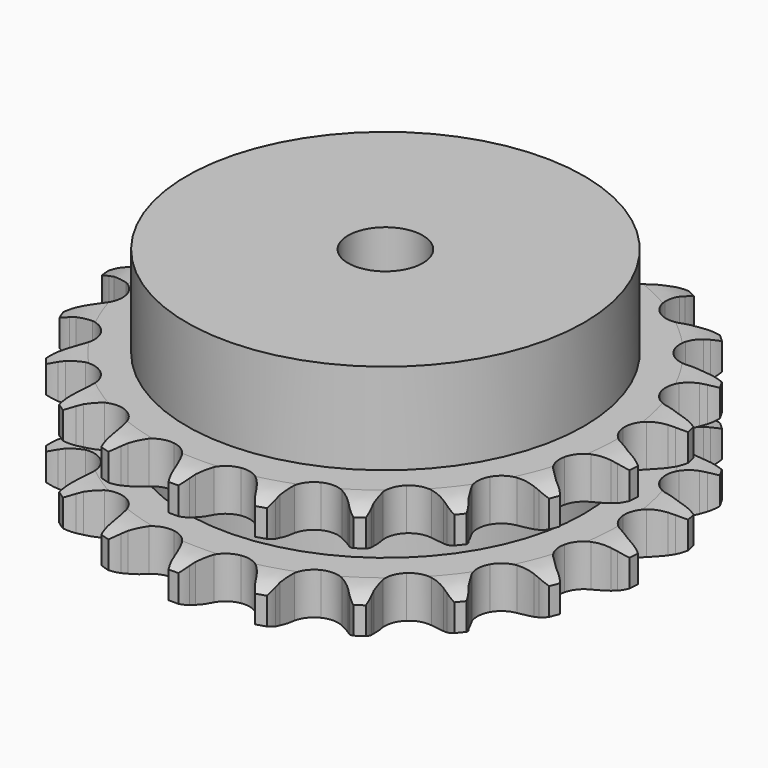
from build123d import *

# Parameters (mm, degrees)
PAD_DEPTH         = 25.5
SKETCH001_R       = 42.5
PAD001_DEPTH      = 45
SKETCH002_R       = 8
POCKET_DEPTH      = 0.001
POCKET_DEPTH_BACK = 45.001


with BuildPart() as part:
    # Sprocket → Pad (new body)
    with BuildSketch(Plane.XY):
        with BuildLine():
            ThreePointArc((-8.672796, 57.540243), (-7.31066, 56.082373), (-6.33219, 54.343582))
            Line((-6.33219, 54.343582), (-5.841747, 53.160938))
            ThreePointArc((-5.841747, 53.160938), (-5.053924, 51.570894), (-4.061016, 50.100166))
            ThreePointArc((-4.061016, 50.100166), (-2.260524, 48.636572), (0, 48.113205))
            ThreePointArc((0, 48.113205), (2.260524, 48.636572), (4.061016, 50.100166))
            ThreePointArc((4.061016, 50.100166), (5.053924, 51.570894), (5.841747, 53.160938))
            Line((5.841747, 53.160938), (6.33219, 54.343582))
            ThreePointArc((6.33219, 54.343582), (7.31066, 56.082373), (8.672796, 57.540243))
            ThreePointArc((8.672796, 57.540243), (9.544702, 55.745645), (9.967183, 53.795695))
            Line((9.967183, 53.795695), (10.087247, 52.521032))
            ThreePointArc((10.087247, 52.521032), (10.371395, 50.769414), (10.886686, 49.071362))
            ThreePointArc((10.886686, 49.071362), (12.175787, 47.142087), (14.181616, 45.97567))
            ThreePointArc((14.181616, 45.97567), (16.495976, 45.809485), (18.64788, 46.67735))
            Line((18.64788, 46.67735), (21.251677, 49.077262))
            ThreePointArc((21.251677, 49.077262), (21.648407, 49.579893), (22.068921, 50.062803))
            ThreePointArc((22.068921, 50.062803), (23.516438, 51.435936), (25.247772, 52.42754))
            ThreePointArc((25.247772, 52.42754), (25.551975, 50.455673), (25.380929, 48.467824))
            Line((25.380929, 48.467824), (25.119945, 47.214402))
            ThreePointArc((25.119945, 47.214402), (24.875171, 45.456849), (24.867059, 43.682351))
            ThreePointArc((24.867059, 43.682351), (25.530225, 41.45882), (27.103133, 39.752996))
            ThreePointArc((27.103133, 39.752996), (29.265689, 38.912024), (31.577797, 39.107048))
            Line((31.577797, 39.107048), (34.773301, 40.632855))
            ThreePointArc((34.773301, 40.632855), (35.300559, 40.996218), (35.844731, 41.333725))
            ThreePointArc((35.844731, 41.333725), (37.632677, 42.21919), (39.579373, 42.65642))
            ThreePointArc((39.579373, 42.65642), (39.288843, 40.682492), (38.539467, 38.833375))
            Line((38.539467, 38.833375), (37.920625, 37.712565))
            ThreePointArc((37.920625, 37.712565), (37.168678, 36.105243), (36.637885, 34.411973))
            ThreePointArc((36.637885, 34.411973), (36.61619, 32.091755), (37.616418, 29.998093))
            ThreePointArc((37.616418, 29.998093), (39.435017, 28.557058), (41.701889, 28.061912))
            Line((41.701889, 28.061912), (45.205165, 28.578041))
            ThreePointArc((45.205165, 28.578041), (45.816102, 28.769848), (46.435579, 28.931963))
            ThreePointArc((46.435579, 28.931963), (48.405087, 29.251083), (50.394173, 29.09509))
            ThreePointArc((50.394173, 29.09509), (49.534725, 27.294493), (48.273605, 25.748409))
            Line((48.273605, 25.748409), (47.351892, 24.859801))
            ThreePointArc((47.351892, 24.859801), (46.159585, 23.545529), (45.153273, 22.083939))
            ThreePointArc((45.153273, 22.083939), (44.448646, 19.873197), (44.787319, 17.577728))
            ThreePointArc((44.787319, 17.577728), (46.10037, 15.664673), (48.120585, 14.523353))
            Line((48.120585, 14.523353), (51.620352, 13.983942))
            ThreePointArc((51.620352, 13.983942), (52.260682, 13.987151), (52.900422, 13.95947))
            ThreePointArc((52.900422, 13.95947), (54.876493, 13.68389), (56.73123, 12.948533))
            ThreePointArc((56.73123, 12.948533), (55.379229, 11.481259), (53.718421, 10.375585))
            Line((53.718421, 10.375585), (52.575735, 9.798134))
            ThreePointArc((52.575735, 9.798134), (51.049011, 8.89369), (49.656595, 7.793651))
            ThreePointArc((49.656595, 7.793651), (48.331645, 5.888818), (47.978671, 3.595504))
            ThreePointArc((47.978671, 3.595504), (48.669504, 1.380413), (50.263556, -0.305671))
            Line((50.263556, -0.305671), (53.448844, -1.852691))
            ThreePointArc((53.448844, -1.852691), (54.061672, -2.038365), (54.664831, -2.253383))
            ThreePointArc((54.664831, -2.253383), (56.471882, -3.099177), (58.027468, -4.348558))
            ThreePointArc((58.027468, -4.348558), (56.303046, -5.352135), (54.390119, -5.919156))
            Line((54.390119, -5.919156), (53.127994, -6.134139))
            ThreePointArc((53.127994, -6.134139), (51.402508, -6.548392), (49.747711, -7.189138))
            ThreePointArc((49.747711, -7.189138), (47.920166, -8.618808), (46.906906, -10.706195))
            ThreePointArc((46.906906, -10.706195), (46.914138, -13.026503), (47.940389, -15.107534))
            Line((47.940389, -15.107534), (50.528172, -17.524704))
            ThreePointArc((50.528172, -17.524704), (51.059045, -17.882764), (51.57203, -18.266013))
            ThreePointArc((51.57203, -18.266013), (53.049496, -19.606869), (54.16771, -21.25926))
            ThreePointArc((54.16771, -21.25926), (52.22409, -21.709969), (50.229017, -21.687953))
            Line((50.229017, -21.687953), (48.959597, -21.521368))
            ThreePointArc((48.959597, -21.521368), (47.188666, -21.40862), (45.418524, -21.53314))
            ThreePointArc((45.418524, -21.53314), (43.250769, -22.360615), (41.667258, -24.056602))
            ThreePointArc((41.667258, -24.056602), (40.990245, -26.275957), (41.357508, -28.567026))
            Line((41.357508, -28.567026), (43.117849, -31.639571))
            ThreePointArc((43.117849, -31.639571), (43.519598, -32.138201), (43.896827, -32.655628))
            ThreePointArc((43.896827, -32.655628), (44.91343, -34.372404), (45.494914, -36.280983))
            ThreePointArc((45.494914, -36.280983), (43.504794, -36.138777), (41.604847, -35.529681))
            Line((41.604847, -35.529681), (40.440925, -34.996328))
            ThreePointArc((40.440925, -34.996328), (38.781905, -34.366599), (37.053702, -33.963828))
            ThreePointArc((37.053702, -33.963828), (34.738352, -34.115584), (32.72529, -35.269475))
            ThreePointArc((32.72529, -35.269475), (31.42419, -37.190677), (31.099831, -39.488213))
            Line((31.099831, -39.488213), (31.876317, -42.943123))
            ThreePointArc((31.876317, -42.943123), (32.113243, -43.538017), (32.321199, -44.143647))
            ThreePointArc((32.321199, -44.143647), (32.786608, -46.0838), (32.779695, -48.078982))
            ThreePointArc((32.779695, -48.078982), (30.919907, -47.356496), (29.283903, -46.214441))
            Line((29.283903, -46.214441), (28.328899, -45.361711))
            ThreePointArc((28.328899, -45.361711), (26.929201, -44.270954), (25.396496, -43.376681))
            ThreePointArc((25.396496, -43.376681), (23.139279, -42.839233), (20.875537, -43.3485))
            ThreePointArc((20.875537, -43.3485), (19.065957, -44.800842), (18.078798, -46.900699))
            Line((18.078798, -46.900699), (17.802434, -50.43099))
            ThreePointArc((17.802434, -50.43099), (17.853486, -51.06929), (17.87369, -51.70931))
            ThreePointArc((17.87369, -51.70931), (17.746553, -53.700449), (17.151856, -55.604953))
            ThreePointArc((17.151856, -55.604953), (15.58765, -54.366382), (14.360955, -52.792845))
            Line((14.360955, -52.792845), (13.699727, -51.696507))
            ThreePointArc((13.699727, -51.696507), (12.683719, -50.241641), (11.4827, -48.935325))
            ThreePointArc((11.4827, -48.935325), (9.48418, -47.756428), (7.170901, -47.57582))
            ThreePointArc((7.170901, -47.57582), (5.01363, -48.430256), (3.451384, -50.145851))
            Line((3.451384, -50.145851), (2.146727, -53.437842))
            ThreePointArc((2.146727, -53.437842), (2.007368, -54.062832), (1.838026, -54.680373))
            ThreePointArc((1.838026, -54.680373), (1.129638, -56.545577), (0, -58.190179))
            ThreePointArc((0, -58.190179), (-1.129638, -56.545577), (-1.838026, -54.680373))
            Line((-1.838026, -54.680373), (-2.146727, -53.437842))
            ThreePointArc((-2.146727, -53.437842), (-2.688767, -51.748138), (-3.451384, -50.145851))
            ThreePointArc((-3.451384, -50.145851), (-5.01363, -48.430256), (-7.170901, -47.57582))
            ThreePointArc((-7.170901, -47.57582), (-9.48418, -47.756428), (-11.4827, -48.935325))
            Line((-11.4827, -48.935325), (-13.699727, -51.696507))
            ThreePointArc((-13.699727, -51.696507), (-14.017113, -52.252654), (-14.360955, -52.792845))
            ThreePointArc((-14.360955, -52.792845), (-15.58765, -54.366382), (-17.151856, -55.604953))
            ThreePointArc((-17.151856, -55.604953), (-17.746553, -53.700449), (-17.87369, -51.70931))
            Line((-17.87369, -51.70931), (-17.802434, -50.43099))
            ThreePointArc((-17.802434, -50.43099), (-17.822344, -48.656585), (-18.078798, -46.900699))
            ThreePointArc((-18.078798, -46.900699), (-19.065957, -44.800842), (-20.875537, -43.3485))
            ThreePointArc((-20.875537, -43.3485), (-23.139279, -42.839233), (-25.396496, -43.376681))
            Line((-25.396496, -43.376681), (-28.328899, -45.361711))
            ThreePointArc((-28.328899, -45.361711), (-28.796112, -45.799599), (-29.283903, -46.214441))
            ThreePointArc((-29.283903, -46.214441), (-30.919907, -47.356496), (-32.779695, -48.078982))
            ThreePointArc((-32.779695, -48.078982), (-32.786608, -46.0838), (-32.321199, -44.143647))
            Line((-32.321199, -44.143647), (-31.876317, -42.943123))
            ThreePointArc((-31.876317, -42.943123), (-31.372327, -41.241682), (-31.099831, -39.488213))
            ThreePointArc((-31.099831, -39.488213), (-31.42419, -37.190677), (-32.72529, -35.269475))
            ThreePointArc((-32.72529, -35.269475), (-34.738352, -34.115584), (-37.053702, -33.963828))
            Line((-37.053702, -33.963828), (-40.440925, -34.996328))
            ThreePointArc((-40.440925, -34.996328), (-41.01645, -35.277048), (-41.604847, -35.529681))
            ThreePointArc((-41.604847, -35.529681), (-43.504794, -36.138777), (-45.494914, -36.280983))
            ThreePointArc((-45.494914, -36.280983), (-44.91343, -34.372404), (-43.896827, -32.655628))
            Line((-43.896827, -32.655628), (-43.117849, -31.639571))
            ThreePointArc((-43.117849, -31.639571), (-42.134742, -30.162274), (-41.357508, -28.567026))
            ThreePointArc((-41.357508, -28.567026), (-40.990245, -26.275957), (-41.667258, -24.056602))
            ThreePointArc((-41.667258, -24.056602), (-43.250769, -22.360615), (-45.418524, -21.53314))
            Line((-45.418524, -21.53314), (-48.959597, -21.521368))
            ThreePointArc((-48.959597, -21.521368), (-49.592297, -21.619977), (-50.229017, -21.687953))
            ThreePointArc((-50.229017, -21.687953), (-52.22409, -21.709969), (-54.16771, -21.25926))
            ThreePointArc((-54.16771, -21.25926), (-53.049496, -19.606869), (-51.57203, -18.266013))
            Line((-51.57203, -18.266013), (-50.528172, -17.524704))
            ThreePointArc((-50.528172, -17.524704), (-49.1533, -16.402815), (-47.940389, -15.107534))
            ThreePointArc((-47.940389, -15.107534), (-46.914138, -13.026503), (-46.906906, -10.706195))
            ThreePointArc((-46.906906, -10.706195), (-47.920166, -8.618808), (-49.747711, -7.189138))
            Line((-49.747711, -7.189138), (-53.127994, -6.134139))
            ThreePointArc((-53.127994, -6.134139), (-53.761651, -6.041876), (-54.390119, -5.919156))
            ThreePointArc((-54.390119, -5.919156), (-56.303046, -5.352135), (-58.027468, -4.348558))
            ThreePointArc((-58.027468, -4.348558), (-56.471882, -3.099177), (-54.664831, -2.253383))
            Line((-54.664831, -2.253383), (-53.448844, -1.852691))
            ThreePointArc((-53.448844, -1.852691), (-51.804371, -1.185895), (-50.263556, -0.305671))
            ThreePointArc((-50.263556, -0.305671), (-48.669504, 1.380413), (-47.978671, 3.595504))
            ThreePointArc((-47.978671, 3.595504), (-48.331645, 5.888818), (-49.656595, 7.793651))
            Line((-49.656595, 7.793651), (-52.575735, 9.798134))
            ThreePointArc((-52.575735, 9.798134), (-53.154045, 10.073072), (-53.718421, 10.375585))
            ThreePointArc((-53.718421, 10.375585), (-55.379229, 11.481259), (-56.73123, 12.948533))
            ThreePointArc((-56.73123, 12.948533), (-54.876493, 13.68389), (-52.900422, 13.95947))
            Line((-52.900422, 13.95947), (-51.620352, 13.983942))
            ThreePointArc((-51.620352, 13.983942), (-49.852397, 14.136398), (-48.120585, 14.523353))
            ThreePointArc((-48.120585, 14.523353), (-46.10037, 15.664673), (-44.787319, 17.577728))
            ThreePointArc((-44.787319, 17.577728), (-44.448646, 19.873197), (-45.153273, 22.083939))
            Line((-45.153273, 22.083939), (-47.351892, 24.859801))
            ThreePointArc((-47.351892, 24.859801), (-47.82347, 25.292984), (-48.273605, 25.748409))
            ThreePointArc((-48.273605, 25.748409), (-49.534725, 27.294493), (-50.394173, 29.09509))
            ThreePointArc((-50.394173, 29.09509), (-48.405087, 29.251083), (-46.435579, 28.931963))
            Line((-46.435579, 28.931963), (-45.205165, 28.578041))
            ThreePointArc((-45.205165, 28.578041), (-43.470819, 28.202609), (-41.701889, 28.061912))
            ThreePointArc((-41.701889, 28.061912), (-39.435017, 28.557058), (-37.616418, 29.998093))
            ThreePointArc((-37.616418, 29.998093), (-36.61619, 32.091755), (-36.637885, 34.411973))
            Line((-36.637885, 34.411973), (-37.920625, 37.712565))
            ThreePointArc((-37.920625, 37.712565), (-38.24357, 38.265503), (-38.539467, 38.833375))
            ThreePointArc((-38.539467, 38.833375), (-39.288843, 40.682492), (-39.579373, 42.65642))
            ThreePointArc((-39.579373, 42.65642), (-37.632677, 42.21919), (-35.844731, 41.333725))
            Line((-35.844731, 41.333725), (-34.773301, 40.632855))
            ThreePointArc((-34.773301, 40.632855), (-33.226667, 39.762895), (-31.577797, 39.107048))
            ThreePointArc((-31.577797, 39.107048), (-29.265689, 38.912024), (-27.103133, 39.752996))
            ThreePointArc((-27.103133, 39.752996), (-25.530225, 41.45882), (-24.867059, 43.682351))
            Line((-24.867059, 43.682351), (-25.119945, 47.214402))
            ThreePointArc((-25.119945, 47.214402), (-25.26556, 47.837964), (-25.380929, 48.467824))
            ThreePointArc((-25.380929, 48.467824), (-25.551975, 50.455673), (-25.247772, 52.42754))
            ThreePointArc((-25.247772, 52.42754), (-23.516438, 51.435936), (-22.068921, 50.062803))
            Line((-22.068921, 50.062803), (-21.251677, 49.077262))
            ThreePointArc((-21.251677, 49.077262), (-20.03018, 47.790073), (-18.64788, 46.67735))
            ThreePointArc((-18.64788, 46.67735), (-16.495976, 45.809485), (-14.181616, 45.97567))
            ThreePointArc((-14.181616, 45.97567), (-12.175787, 47.142087), (-10.886686, 49.071362))
            Line((-10.886686, 49.071362), (-10.087247, 52.521032))
            ThreePointArc((-10.087247, 52.521032), (-10.042595, 53.159812), (-9.967183, 53.795695))
            ThreePointArc((-9.967183, 53.795695), (-9.544702, 55.745645), (-8.672796, 57.540243))
        make_face()
    extrude(amount=PAD_DEPTH)

    # Sketch → Groove (revolve, cut)
    with BuildSketch(Plane.XZ):
        with BuildLine():
            ThreePointArc((49.725762, 0), (53.30347, 0.405129), (56.7, 1.6))
            Line((56.7, 1.6), (56.7, 7.4))
            ThreePointArc((56.7, 7.4), (53.30347, 8.594871), (49.725762, 9))
            Line((42.5, 9), (49.725762, 9))
            Line((42.5, 16.5), (42.5, 9))
            Line((49.725762, 16.5), (42.5, 16.5))
            ThreePointArc((49.725762, 16.5), (53.30347, 16.905129), (56.7, 18.1))
            Line((56.7, 18.1), (56.7, 23.9))
            ThreePointArc((56.7, 23.9), (53.30347, 25.094871), (49.725762, 25.5))
            Line((49.725762, 25.5), (59.725762, 25.5))
            Line((59.725762, 25.5), (59.725762, 0))
            Line((49.725762, 0), (59.725762, 0))
        make_face()
    revolve(axis=Axis((0, 0, 0), (0, 0, 1)), mode=Mode.SUBTRACT)

    # Sketch001 → Pad001 (join)
    with BuildSketch(Plane.XY):
        Circle(SKETCH001_R)
    extrude(amount=PAD001_DEPTH)

    # Sketch002 → Pocket (cut, two sides)
    with BuildSketch(Plane.XY) as pocket_sk:
        Circle(SKETCH002_R)
    extrude(amount=-POCKET_DEPTH, mode=Mode.SUBTRACT)
    extrude(pocket_sk.sketch, amount=POCKET_DEPTH_BACK, mode=Mode.SUBTRACT)


solid = part.part
